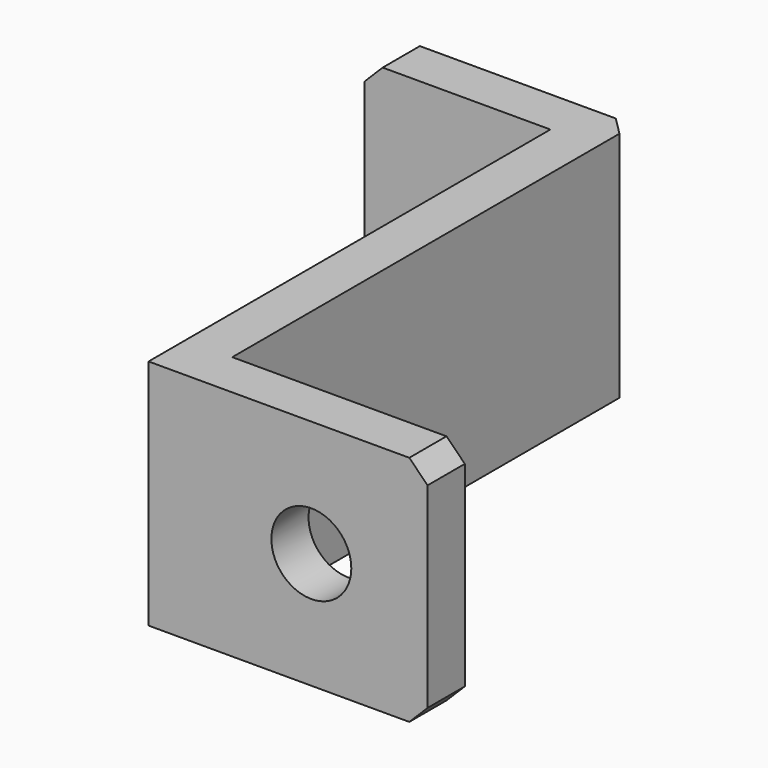
from build123d import *

# Parameters (mm, degrees)
PAD_DEPTH    = 12.7
SKETCH001_R  = 2.182812
POCKET_DEPTH = 27.433
CHAMFER_SIZE = 1


with BuildPart() as part:
    # Sketch → Pad (new body)
    with BuildSketch(Plane.XY):
        Polygon((0, -27.432), (15.24, -27.432), (15.24, -24.892), (2.54, -24.892), (2.54, 2.54), (-10.16, 2.54), (-10.16, 0), (0, 0), align=None)
    extrude(amount=PAD_DEPTH)

    # Sketch001 → Pocket (cut, through all)
    with BuildSketch(Plane.XZ):
        with Locations((8.89, 6.35)):
            Circle(SKETCH001_R)
        with Locations((-3.81, 6.35)):
            Circle(SKETCH001_R)
    extrude(amount=POCKET_DEPTH, mode=Mode.SUBTRACT)

    # Chamfer
    chamfer_edges = [part.edges().sort_by_distance(p)[0] for p in [
        (-10.16, 1.27, 0),
        (-10.16, 1.27, 12.7),
        (2.54, 2.54, 6.35),
        (15.24, -26.162, 0),
        (15.24, -26.162, 12.7),
    ]]
    chamfer(chamfer_edges, length=CHAMFER_SIZE)


solid = part.part
